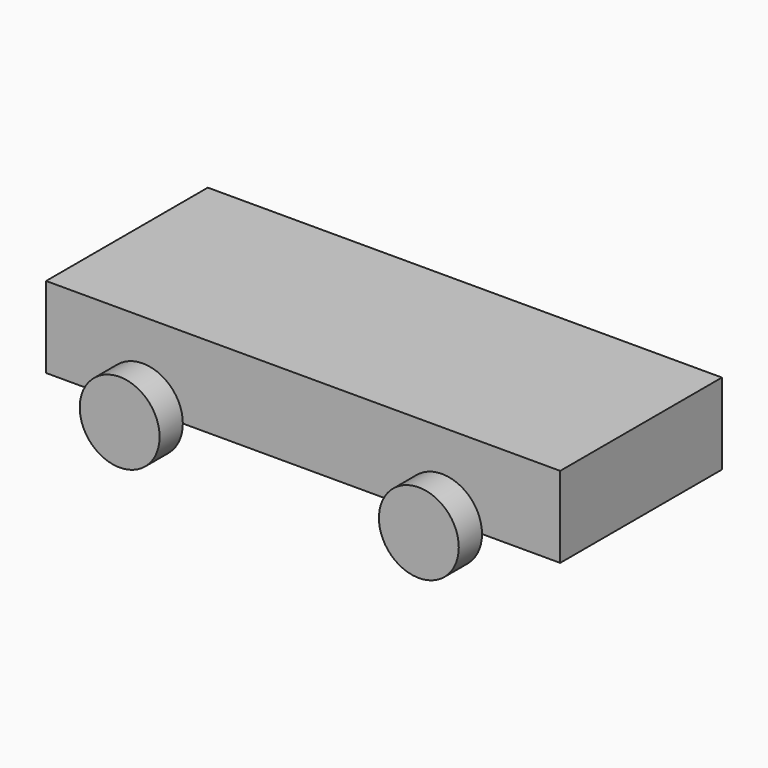
from build123d import *

# Parameters (mm, degrees)
F0_W     = 449.58
F0_H     = 176.784
F1_DEPTH = 70.866
F2_R     = 34.925
F3_DEPTH = 25.4


with BuildPart() as f1:
    # F0 (on Top) → F1 (new body)
    with BuildSketch(Plane.XY):
        with Locations((0.674624, 34.092653)):
            Rectangle(F0_W, F0_H)
    extrude(amount=F1_DEPTH)

    # F2 (on face) → F3 (join)
    with BuildSketch(Plane.XZ.offset(54.299347)):
        with Locations((-139.445239, 0)):
            Circle(F2_R)
        with Locations((122.174761, 0)):
            Circle(F2_R)
    extrude(amount=F3_DEPTH)


solid = f1.part
